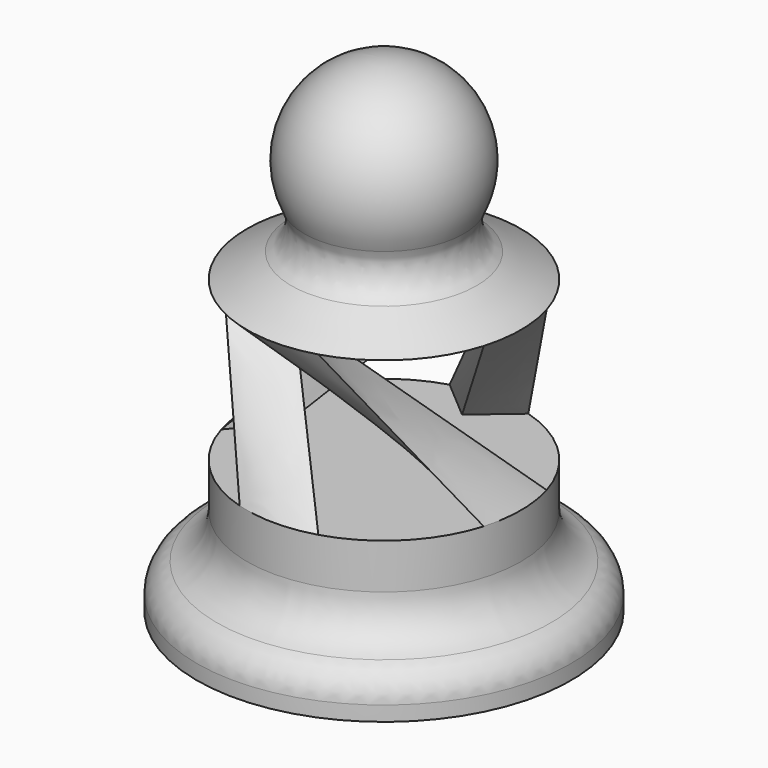
from build123d import *

# Parameters (mm, degrees)
F5_COUNT = 4
F6_R     = 7.62
F7_R     = 5.08
F8_R     = 5.08


with BuildPart() as f1:
    # F0 (on Front) → F1 (revolve)
    with BuildSketch(Plane.XZ):
        Polygon((-30.2196051925, 0), (0, 0), (0, 21.5392599132), (-22.1149149458, 21.5392599132), (-22.1149149458, 6.6195321269), (-30.2196051925, 6.6195321269), align=None)
    revolve(axis=Axis((0, 0, 62.8589570214), (0, 0, 1)))



with BuildPart() as f1b:
    # F0 (on Front) → F1, piece 2 (revolve)
    with BuildSketch(Plane.XZ):
        with BuildLine():
            Line((-22.1149149458, 47.1819389861), (0, 47.1819389861))
            Line((0, 47.1819389861), (0, 78.5359750567))
            ThreePointArc((0, 78.5359750567), (-13.2981646967, 69.5796959287), (-9.9974415372, 53.8901660841))
            Line((-9.9974415372, 53.8901660841), (-22.1149149458, 47.1819389861))
        make_face()
    revolve(axis=Axis((0, 0, 62.8589570214), (0, 0, 1)))


with BuildPart() as f1_1:
    add(f1.part)

    add(f1b.part)  # F4 merges F1b
    # F3 (on face) → F4 section 0
    with BuildSketch(Plane(origin=(0, 0, 47.1819389861), x_dir=(1, 0, 0), z_dir=(0, 0, -1))):
        with BuildLine():
            Line((-15.7649149458, 0), (-21.1836484832, 6.35))
            ThreePointArc((-21.1836484832, 6.35), (-22.1149149458, 0), (-21.1836484832, -6.35))
            Line((-21.1836484832, -6.35), (-15.7649149458, 0))
        make_face()
    # F2 (on face) → F4 section 1
    with BuildSketch(Plane.XY.offset(21.5392599132)):
        with BuildLine():
            Line((0, -15.7649149458), (-6.35, -21.1836484832))
            ThreePointArc((-6.35, -21.1836484832), (0, -22.1149149458), (6.35, -21.1836484832))
            Line((6.35, -21.1836484832), (0, -15.7649149458))
        make_face()
    loft()

    # F5: F1 ×4 about axis
    f5_axis = Axis((0, 0, 21.5392599132), (0, 0, 1))


with BuildPart() as f1_2:
    add(f1_1.part)
    for i in range(1, F5_COUNT):
        add(f1_1.part.rotate(f5_axis, i * 360 / F5_COUNT))

    # F6
    f6_edges = [f1_2.edges().sort_by_distance(p)[0] for p in [
        (22.114915, 0, 6.619532),
    ]]
    fillet(f6_edges, radius=F6_R)

    # F7
    f7_edges = [f1_2.edges().sort_by_distance(p)[0] for p in [
        (30.219605, 0, 6.619532),
    ]]
    fillet(f7_edges, radius=F7_R)

    # F8
    f8_edges = [f1_2.edges().sort_by_distance(p)[0] for p in [
        (9.997442, 0, 53.890166),
    ]]
    fillet(f8_edges, radius=F8_R)


solid = f1_2.part
